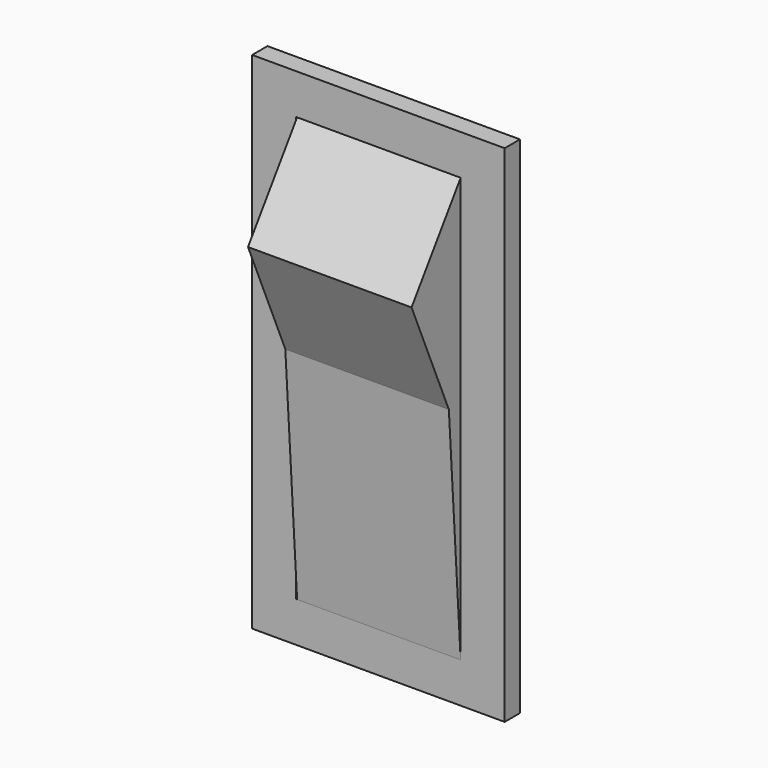
from build123d import *

# Parameters (mm, degrees)
F0_W     = 52.65262
F0_H     = 105.305238
F0_W_2   = 34.300394
F0_H_2   = 88.497445
F1_DEPTH = 4
F3_DEPTH = 34.1


with BuildPart() as f1:
    # F0 (on Front) → F1 (new body)
    with BuildSketch(Plane.XZ):
        with Locations((-55.399712, 65.472387)):
            Rectangle(F0_W, F0_H)
        with Locations((-55.399712, 65.472386)):
            Rectangle(F0_W_2, F0_H_2, mode=Mode.SUBTRACT)
    extrude(amount=F1_DEPTH)


with BuildPart() as f3:
    # F2 (on face) → F3 (new body)
    with BuildSketch(Plane(origin=(-38.249515, 0, 0), x_dir=(0, -1, 0), z_dir=(-1, 0, 0))):
        Polygon((16.800193, 91.121189), (4, 109.721109), (4, 21.223664), (7.073762, 68.426192), align=None)
    extrude(amount=F3_DEPTH)


solid = Compound([f1.part, f3.part])
